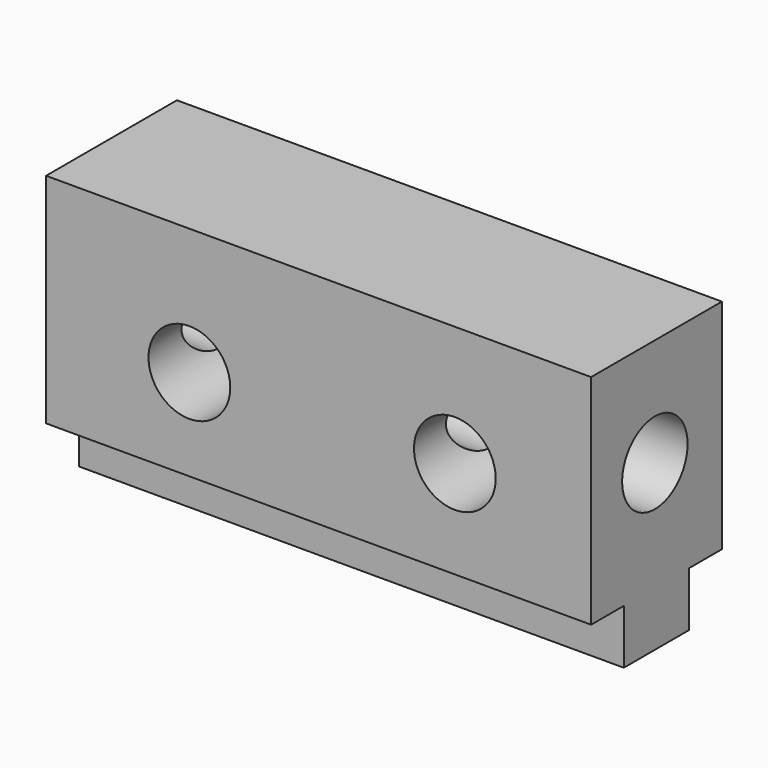
from build123d import *

# Parameters (mm, degrees)
F0_W          = 127
F0_H          = 50.8
F0_R          = 9.525
F1_DEPTH      = 38.1
F2_START      = 9.525
F0_H_2        = 12.7
F2_DEPTH      = 19.05
F3_R          = 9.525
F4_DEPTH      = 74.93
F4_DEPTH_BACK = 90.678


with BuildPart() as f1:
    # F0 (on Front) → F1 (new body)
    with BuildSketch(Plane.XZ):
        with Locations((-0.4703439772, 7.7449264884)):
            Rectangle(F0_W, F0_H)
        with Locations((-30.579155311, 3.6434426438)):
            Circle(F0_R, mode=Mode.SUBTRACT)
        with Locations((31.2796560228, 5.1008197479)):
            Circle(F0_R, mode=Mode.SUBTRACT)
    extrude(amount=F1_DEPTH)

    # F0 (on Front) → F2 (join)
    with BuildSketch(Plane.XZ.offset(F2_START)):
        with Locations((-0.4703439772, -24.0050735116)):
            Rectangle(F0_W, F0_H_2)
    extrude(amount=F2_DEPTH)

    # F3 (on Right) → F4 (cut, two sides)
    with BuildSketch(Plane.YZ) as f4_sk:
        with Locations((-19.5288527757, 8.0155739561)):
            Circle(F3_R)
    extrude(amount=F4_DEPTH, mode=Mode.SUBTRACT)
    extrude(f4_sk.sketch, amount=-F4_DEPTH_BACK, mode=Mode.SUBTRACT)


solid = f1.part
